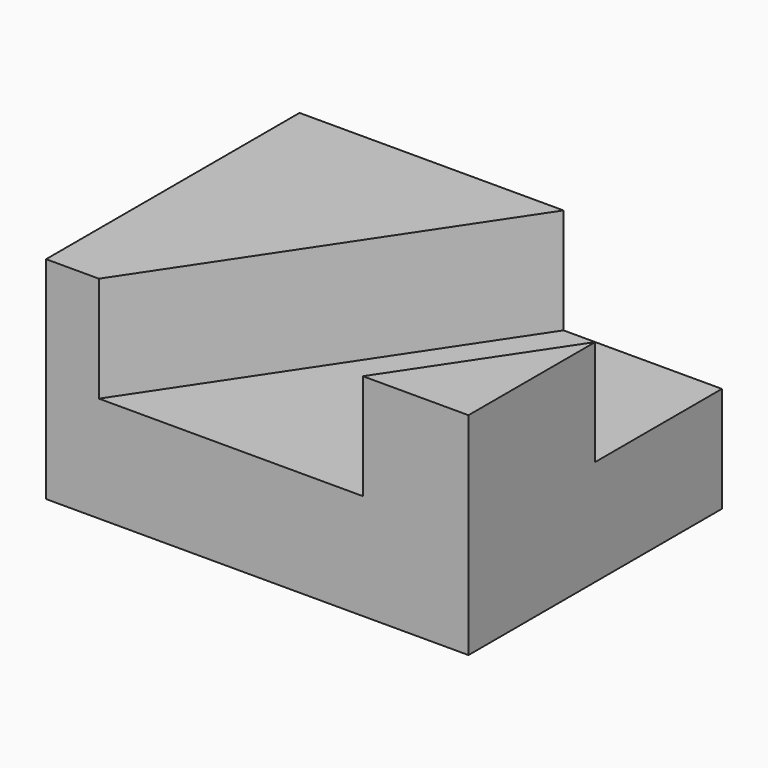
from build123d import *

# Parameters (mm, degrees)
F0_W     = 50.8
F0_H     = 38.1
F1_DEPTH = 25.4
F3_DEPTH = 12.7


with BuildPart() as f1:
    # F0 (on Top) → F1 (new body)
    with BuildSketch(Plane.XY):
        with Locations((4.332468, -4.228231)):
            Rectangle(F0_W, F0_H)
    extrude(amount=F1_DEPTH)

    # F2 (on face) → F3 (cut)
    with BuildSketch(Plane.XY.offset(25.4)):
        Polygon((17.032468, -23.278231), (29.732468, -4.228231), (29.732468, 14.821769), (10.682468, 14.821769), (-14.717532, -23.278231), align=None)
    extrude(amount=-F3_DEPTH, mode=Mode.SUBTRACT)


solid = f1.part
